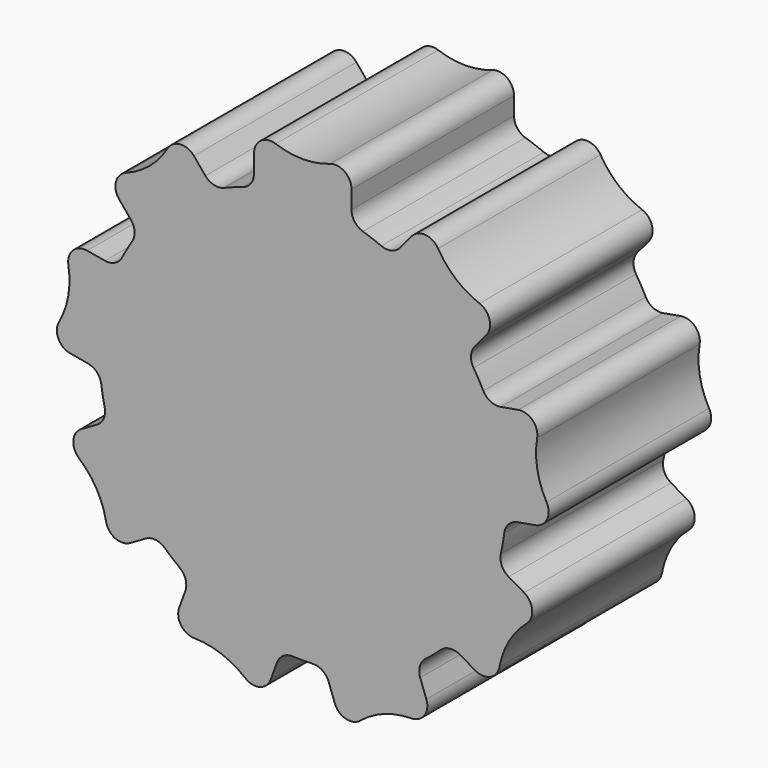
from build123d import *

# Parameters (mm, degrees)
F1_DEPTH = 25
F2_R     = 2
F4_COUNT = 9


with BuildPart() as f1:
    # F0 (on Front) → F1 (new body)
    with BuildSketch(Plane.XZ):
        with BuildLine():
            ThreePointArc((-6, 24.269322), (-15.411035, -19.68502), (25, 0))
            ThreePointArc((25, 0), (19.68502, 15.411035), (6, 24.269322))
            ThreePointArc((6, 24.269322), (0, 25), (-6, 24.269322))
        make_face()
        with BuildLine():
            ThreePointArc((-6, 24.269322), (0, 25), (6, 24.269322))
            Line((6, 24.269322), (6, 28))
            ThreePointArc((6, 28), (5.154701, 29.632993), (3.333333, 29.885618))
            ThreePointArc((3.333333, 29.885618), (0, 29.313708), (-3.333333, 29.885618))
            ThreePointArc((-3.333333, 29.885618), (-5.154701, 29.632993), (-6, 28))
            Line((-6, 28), (-6, 24.269322))
        make_face()
    extrude(amount=F1_DEPTH)

    # F2
    f2_edges = [f1.edges().sort_by_distance(p)[0] for p in [
        (-6, -12.5, 24.269322),
        (6, -12.5, 24.269322),
    ]]
    fillet(f2_edges, radius=F2_R)

    # F4: F1 ×9 about axis
    f4_axis = Axis((0, -14.063225, 0), (0, -1, 0))


with BuildPart() as f1_1:
    add(f1.part)
    for i in range(1, F4_COUNT):
        add(f1.part.rotate(f4_axis, i * 360 / F4_COUNT))


solid = f1_1.part
